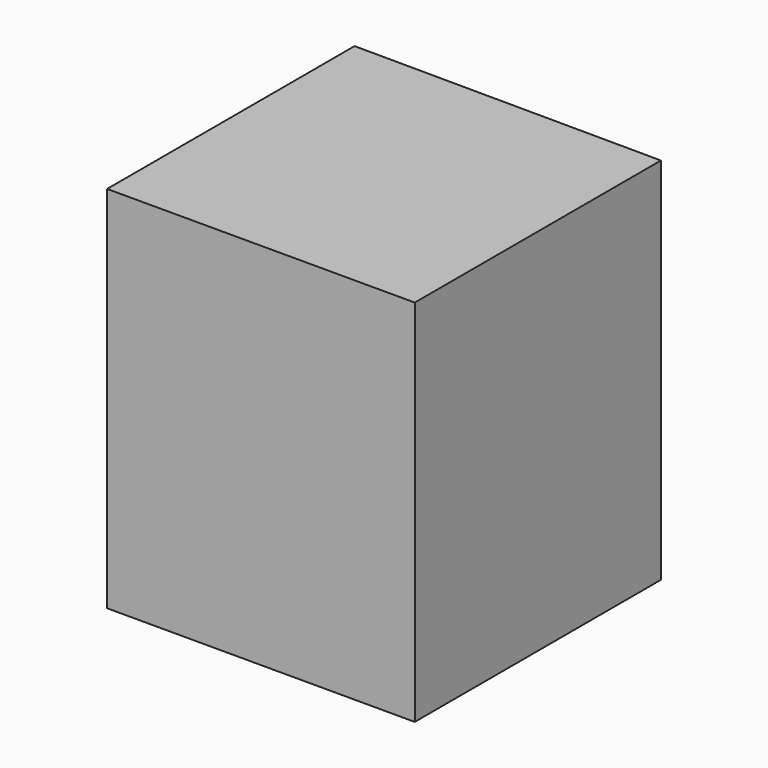
from build123d import *

# Parameters (mm, degrees)
F2_DEPTH = 152.4
F3_DEPTH = 101.6


with BuildPart() as f2:
    # F0 (on Top) → F2 (new body)
    with BuildSketch(Plane.XY):
        Polygon((63.179306, 63.188269), (-63.818872, 63.868547), (-63.818872, -63.811731), (63.179306, -63.811731), align=None)
    extrude(amount=F2_DEPTH)

    # F1 (on face) → F3 (cut)
    with BuildSketch(Plane.XY):
        Polygon((-13.281766, 63.979113), (-64.081766, 63.979113), (-64.081766, 13.179113), align=None)
    extrude(amount=F3_DEPTH, mode=Mode.SUBTRACT)


solid = f2.part
